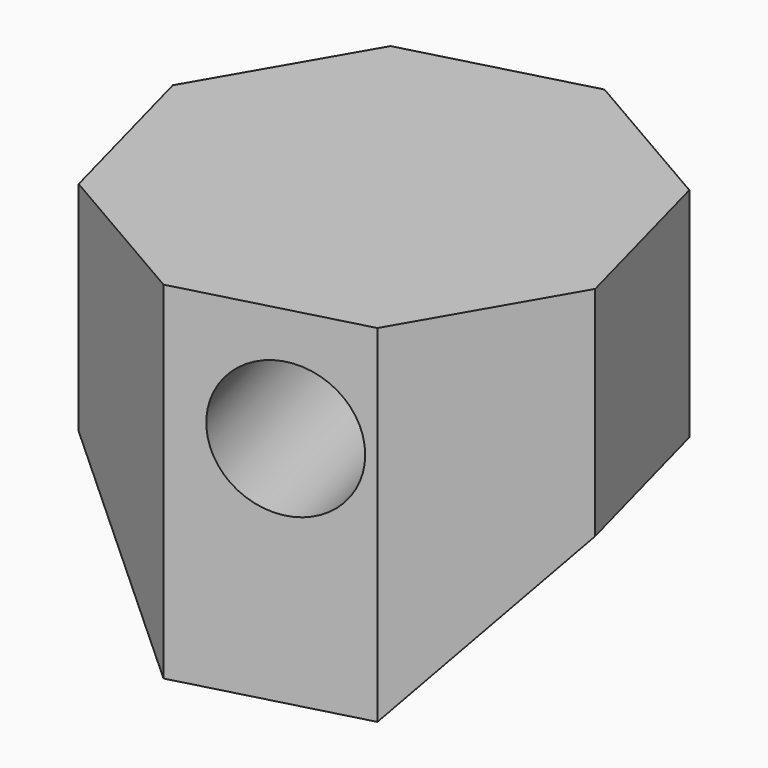
from build123d import *

# Parameters (mm, degrees)
F1_DEPTH = 48
F2_W     = 20
F2_H     = 24.1421356237
F3_DEPTH = 55.8448557599
F4_R     = 7.4299584593
F5_DEPTH = 55.8448557599


with BuildPart() as f1:
    # F0 (on Top) → F1 (new body)
    with BuildSketch(Plane.XY):
        Polygon((-15.8813725217, 20.7514992061), (-25.9033520131, 3.4436996038), (-20.7514992061, -15.8813725217), (-3.4436996038, -25.9033520131), (15.8813725217, -20.7514992061), (25.9033520131, -3.4436996038), (20.7514992061, 15.8813725217), (3.4436996038, 25.9033520131), align=None)
    extrude(amount=F1_DEPTH)

    # F2 (on face) → F3 (cut, through all)
    with BuildSketch(Plane(origin=(23.3274256096, 6.218836459, 0), x_dir=(-0.2575926403, 0.9662536063, 0), z_dir=(0.9662536063, 0.2575926403, 0))):
        Polygon((-10, 24.1421356237), (-24.1421356237, 10), (-24.1421356237, -10), (-10, -24.1421356237), (10, -24.1421356237), (24.1421356237, -10), (24.1421356237, 10), (10, 24.1421356237), (10, 0), (-10, 0), align=None)
        with Locations((0, 12.0710678119)):
            Rectangle(F2_W, F2_H)
    extrude(amount=-F3_DEPTH, mode=Mode.SUBTRACT)

    # F4 (on face) → F5 (cut, through all)
    with BuildSketch(Plane(origin=(6.218836459, -23.3274256096, 0), x_dir=(0.9662536063, 0.2575926403, 0), z_dir=(0.2575926403, -0.9662536063, 0))):
        with Locations((1.4277122682, 35.5290137231)):
            Circle(F4_R)
    extrude(amount=-F5_DEPTH, mode=Mode.SUBTRACT)


solid = f1.part
